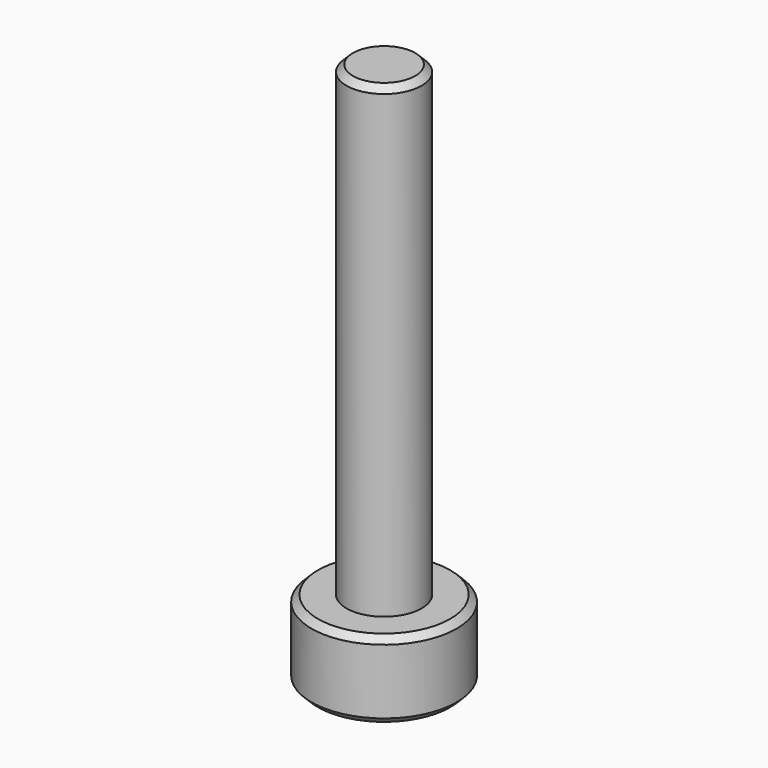
from build123d import *

# Parameters (mm, degrees)
SKETCH_R     = 2.8
PAD_DEPTH    = 3
SKETCH001_R  = 1.45
PAD001_DEPTH = 18
POCKET_DEPTH = 2
CHAMFER_SIZE = 0.25


with BuildPart() as part:
    # Sketch → Pad (new body)
    with BuildSketch(Plane.XY):
        Circle(SKETCH_R)
    extrude(amount=PAD_DEPTH)

    # Sketch001 (on Face3 of Pad) → Pad001 (join)
    with BuildSketch(Plane.XY.offset(3)):
        Circle(SKETCH001_R)
    extrude(amount=PAD001_DEPTH)

    # Sketch002 (on Face2 of Pad001) → Pocket (cut)
    with BuildSketch(Plane(origin=(0, 0, 0), x_dir=(1, 0, 0), z_dir=(0, 0, -1))):
        Polygon((1.259542, 0.814588), (-0.075682, 1.49809), (-1.335225, 0.683502), (-1.259542, -0.814588), (0.075682, -1.49809), (1.335225, -0.683502), align=None)
    extrude(amount=-POCKET_DEPTH, mode=Mode.SUBTRACT)

    # Chamfer
    chamfer_edges = [part.edges().sort_by_distance(p)[0] for p in [
        (-2.8, 0, 3),
        (-2.8, 0, 0),
        (1.297384, -0.065543, 0),
        (0.705454, 1.090796, 0),
        (-0.59193, 1.156339, 0),
        (-1.297384, 0.065543, 0),
        (-0.705454, -1.090796, 0),
        (0.59193, -1.156339, 0),
        (-1.45, 0, 21),
    ]]
    chamfer(chamfer_edges, length=CHAMFER_SIZE)


solid = part.part
